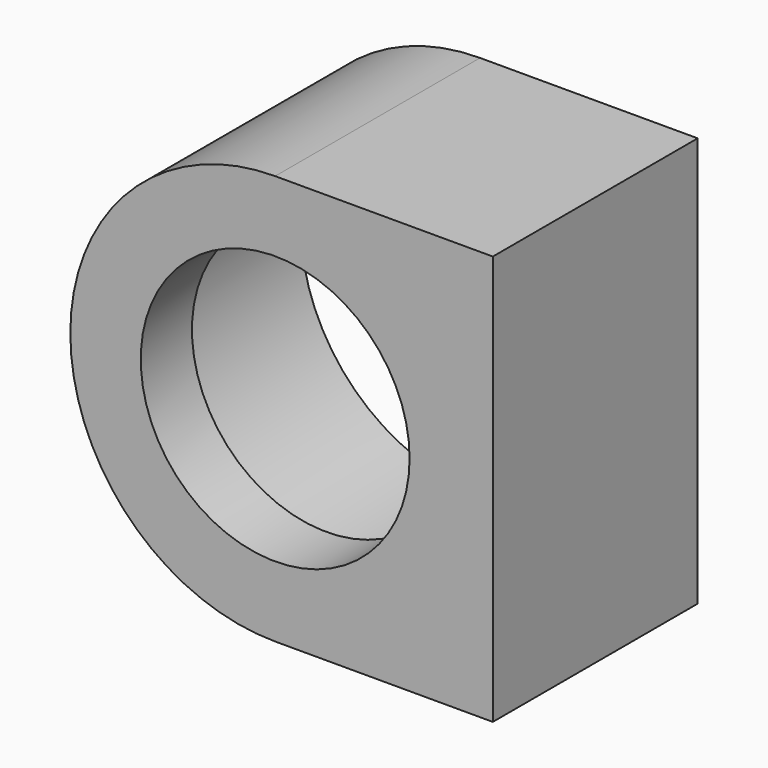
from build123d import *

# Parameters (mm, degrees)
F0_R      = 16
F0_R_2    = 10.5
F1_DEPTH  = 20
F2_R      = 12.5
F3_DEPTH  = 15
F4_DEPTH  = 15.001
F5_R      = 14
F6_DEPTH  = 15
F8_W      = 20
F8_H      = 16
F9_DEPTH  = 2
F11_DEPTH = 20
F14_DEPTH = 20


with BuildPart() as f1:
    # F0 (on Front) → F1 (new body)
    with BuildSketch(Plane.XZ):
        Circle(F0_R)
        Circle(F0_R_2, mode=Mode.SUBTRACT)
    extrude(amount=F1_DEPTH)

    # F2 (on face) → F3 (join)
    with BuildSketch(Plane.XZ.offset(20)):
        Circle(F2_R)
    extrude(amount=-F3_DEPTH)

    # F4 (cut, through all): a face of the model
    f4_faces = [f1.faces().sort_by_distance(p)[0] for p in [
        (0, -5, 0),
    ]]
    extrude(f4_faces, amount=-F4_DEPTH, mode=Mode.SUBTRACT)

    # F5 (on face) → F6 (cut)
    with BuildSketch(Plane(origin=(0, 0, 0), x_dir=(-1, 0, 0), z_dir=(0, 1, 0))):
        Circle(F5_R)
    extrude(amount=-F6_DEPTH, mode=Mode.SUBTRACT)

    # F8 (on offset) → F9 (join)
    with BuildSketch(Plane.YZ.offset(15)):
        with Locations((-10, -8)):
            Rectangle(F8_W, F8_H)
        with Locations((-10, 8)):
            Rectangle(F8_W, F8_H)
    extrude(amount=F9_DEPTH)

    # F10 (on face) → F11 (join)
    with BuildSketch(Plane.XZ.offset(20)):
        with BuildLine():
            Line((15, 16), (0, 16))
            ThreePointArc((0, 16), (9.1355287257, 13.1355287257), (15, 5.5677643628))
            Line((15, 5.5677643628), (15, 16))
        make_face()
    extrude(amount=-F11_DEPTH)

    # F13 (on face) → F14 (join)
    with BuildSketch(Plane.XZ.offset(20)):
        with BuildLine():
            Line((0, -16), (15, -16))
            Line((15, -16), (15, -5.5677643628))
            ThreePointArc((15, -5.5677643628), (9.1355287257, -13.1355287257), (0, -16))
        make_face()
    extrude(amount=-F14_DEPTH)


solid = f1.part
